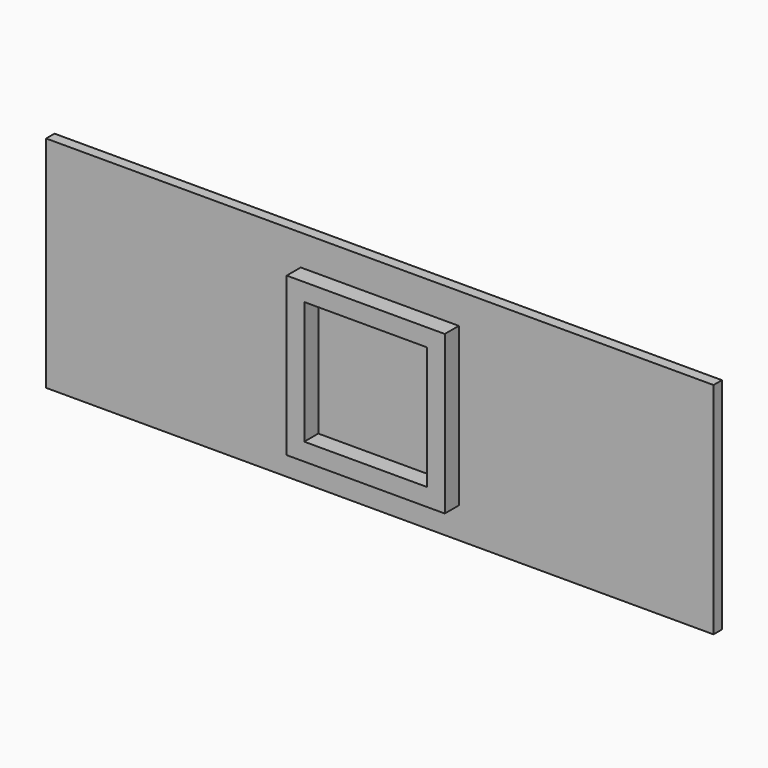
from build123d import *

# Parameters (mm, degrees)
F0_W     = 18
F0_H     = 18
F0_W_2   = 14
F0_H_2   = 14
F1_DEPTH = 2
F2_W     = 76
F2_H     = 25
F3_DEPTH = 1.2


with BuildPart() as f1:
    # F0 (on Front) → F1 (new body)
    with BuildSketch(Plane.XZ):
        Rectangle(F0_W, F0_H)
        Rectangle(F0_W_2, F0_H_2, mode=Mode.SUBTRACT)
    extrude(amount=F1_DEPTH)


with BuildPart() as f3:
    # F2 (on Front) → F3 (new body)
    with BuildSketch(Plane.XZ):
        Rectangle(F2_W, F2_H)
    extrude(amount=-F3_DEPTH)


solid = Compound([f1.part, f3.part])
